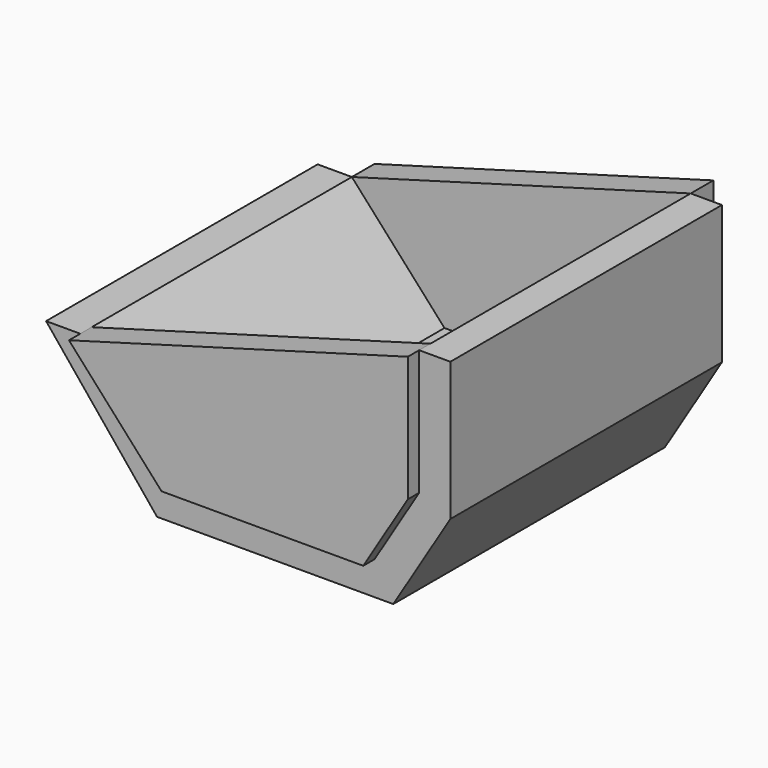
from build123d import *

# Parameters (mm, degrees)
F1_DEPTH = 152.4
F3_DEPTH = 12.7
F5_DEPTH = 25.4


with BuildPart() as f1:
    # F0 (on Front) → F1 (new body, symmetric)
    with BuildSketch(Plane.XZ):
        Polygon((85.248322, -28.674914), (-32.316173, -28.674914), (-95.816173, -28.674914), (-178.967252, 63.682506), (-209.674103, 63.682506), (-110.062133, -58.646913), (-32.316173, -58.646913), (102.063274, -58.646913), (153.320322, 25.282022), (153.320322, 149.59761), (125.289187, 149.59761), (125.289187, 36.888502), align=None)
    extrude(amount=F1_DEPTH, both=True)

    # F2 (on face) → F3 (join, symmetric)
    with BuildSketch(Plane.XZ.offset(152.4)):
        Polygon((125.289187, 149.59761), (-178.967252, 63.682506), (-95.816173, -28.674914), (85.248322, -28.674914), (125.289187, 36.888502), align=None)
    extrude(amount=F3_DEPTH, both=True)


with BuildPart() as f5:
    # F4 (on face) → F5 (new body)
    with BuildSketch(Plane(origin=(0, 152.4, 0), x_dir=(-1, 0, 0), z_dir=(0, 1, 0))):
        Polygon((178.967252, 63.682506), (-125.289187, 149.59761), (-125.289187, 36.888502), (-85.248322, -28.674914), (95.816173, -28.674914), align=None)
    extrude(amount=F5_DEPTH)


solid = Compound([f1.part, f5.part])
